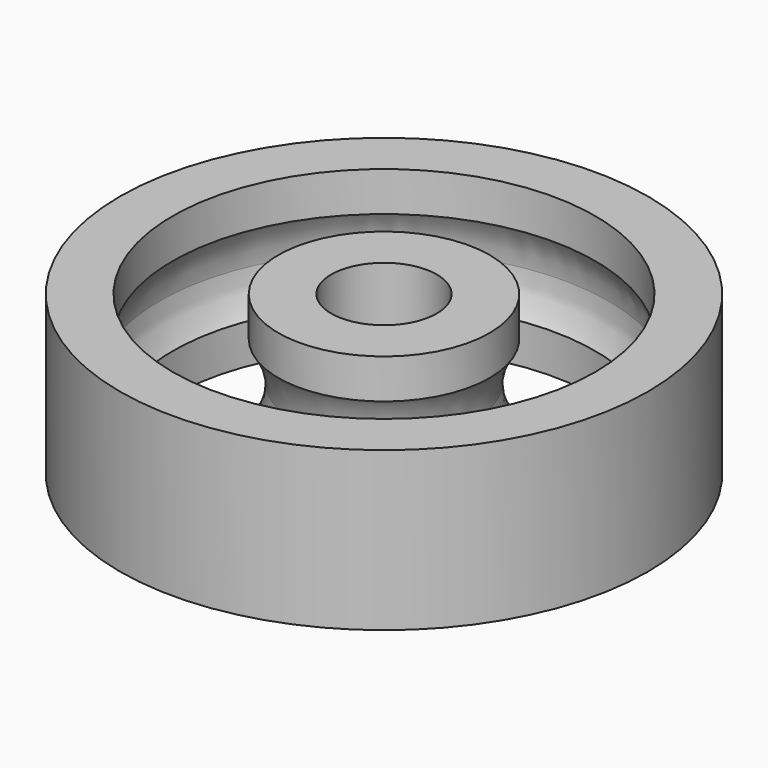
from build123d import *


with BuildPart() as f1:
    # F0 (on Front) → F1 (revolve)
    with BuildSketch(Plane.XZ):
        with BuildLine():
            Line((25.4, 19.05), (12.7, 19.05))
            Line((12.7, 19.05), (12.7, -19.05))
            Line((12.7, -19.05), (25.4, -19.05))
            Line((25.4, -19.05), (25.4, -9.525))
            ThreePointArc((25.4, -9.525), (23.039653, -5.020116), (22.225, 0))
            ThreePointArc((22.225, 0), (23.039653, 5.020116), (25.4, 9.525))
            Line((25.4, 9.525), (25.4, 19.05))
        make_face()
        with BuildLine():
            Line((50.8, 19.05), (50.8, 9.525))
            ThreePointArc((50.8, 9.525), (53.160347, 5.020116), (53.975, 0))
            ThreePointArc((53.975, 0), (53.160347, -5.020116), (50.8, -9.525))
            Line((50.8, -9.525), (50.8, -19.05))
            Line((50.8, -19.05), (63.5, -19.05))
            Line((63.5, -19.05), (63.5, 19.05))
            Line((63.5, 19.05), (50.8, 19.05))
        make_face()
    revolve(axis=Axis((0, 0, 0), (0, 0, -1)))


solid = f1.part
